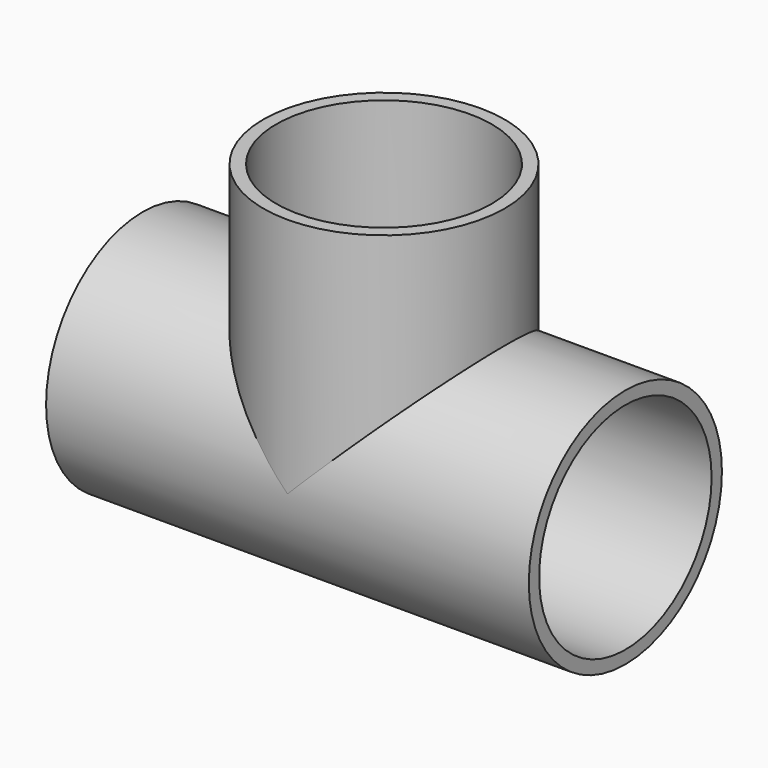
from build123d import *

# Parameters (mm, degrees)
F0_R     = 14.024991
F0_R_2   = 12.524994
F1_DEPTH = 28.049982
F2_R     = 14.024991
F2_R_2   = 12.524994
F3_DEPTH = 28.049982
F4_DEPTH = 25.4


with BuildPart() as f1:
    # F0 (on Right) → F1 (new body, symmetric)
    with BuildSketch(Plane.YZ):
        Circle(F0_R)
        Circle(F0_R_2, mode=Mode.SUBTRACT)
    extrude(amount=F1_DEPTH, both=True)

    # F2 (on Top) → F3 (join)
    with BuildSketch(Plane.XY):
        Circle(F2_R)
        Circle(F2_R_2, mode=Mode.SUBTRACT)
    extrude(amount=F3_DEPTH)

    # F0 (on Right) → F4 (cut, symmetric)
    with BuildSketch(Plane.YZ):
        Circle(F0_R_2)
    extrude(amount=F4_DEPTH, both=True, mode=Mode.SUBTRACT)


solid = f1.part
